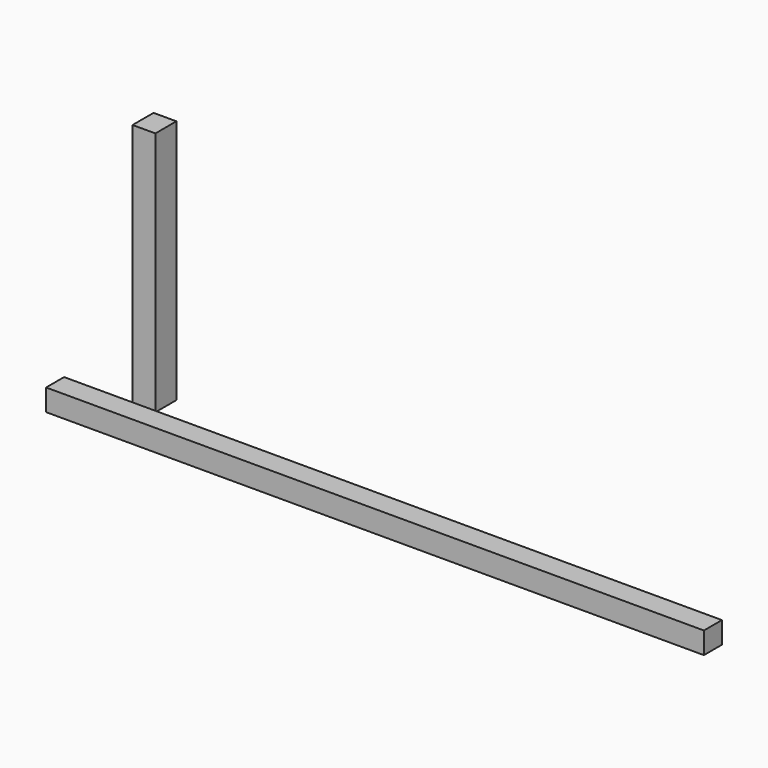
from build123d import *

# Parameters (mm, degrees)
F0_W     = 6.962299
F0_H     = 6.709028
F1_DEPTH = 203.2
F2_W     = 7.053301
F2_H     = 8.109674
F3_DEPTH = 75.832428


with BuildPart() as f1:
    # F0 (on Right) → F1 (new body)
    with BuildSketch(Plane.YZ):
        with Locations((-3.481149, 3.354514)):
            Rectangle(F0_W, F0_H)
    extrude(amount=-F1_DEPTH)


with BuildPart() as f3:
    # F2 (on Top) → F3 (new body)
    with BuildSketch(Plane.XY):
        with Locations((-186.103351, 13.518386)):
            Rectangle(F2_W, F2_H)
    extrude(amount=F3_DEPTH)


solid = Compound([f1.part, f3.part])
